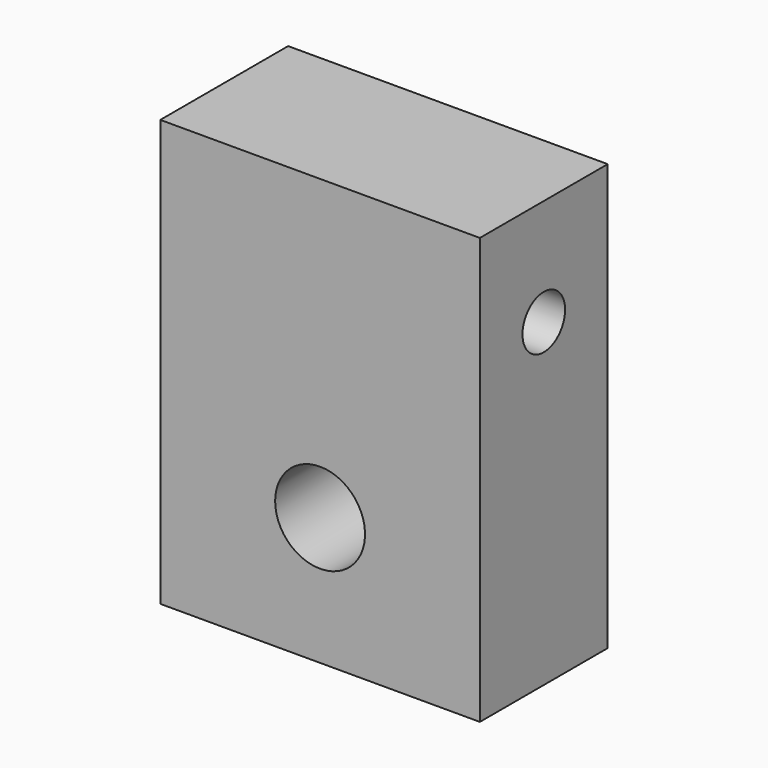
from build123d import *

# Parameters (mm, degrees)
F0_W     = 38.1
F0_H     = 50.8
F1_DEPTH = 19.05
F3_D     = 6.35
F4_D     = 10.71626


with BuildPart() as f1:
    # F0 (on Front) → F1 (new body)
    with BuildSketch(Plane.XZ):
        with Locations((-19.05, 25.4)):
            Rectangle(F0_W, F0_H)
    extrude(amount=F1_DEPTH)

    # F3 (through all)
    with Locations(Plane.YZ):
        with Locations((-9.525, 38.1)):
            Hole(F3_D / 2)

    # F4 (through all)
    with Locations(Plane(origin=(0, 0, 0), x_dir=(1, 0, 0), z_dir=(0, 1, 0))):
        with Locations((-19.05, -15.24)):
            Hole(F4_D / 2)


solid = f1.part
